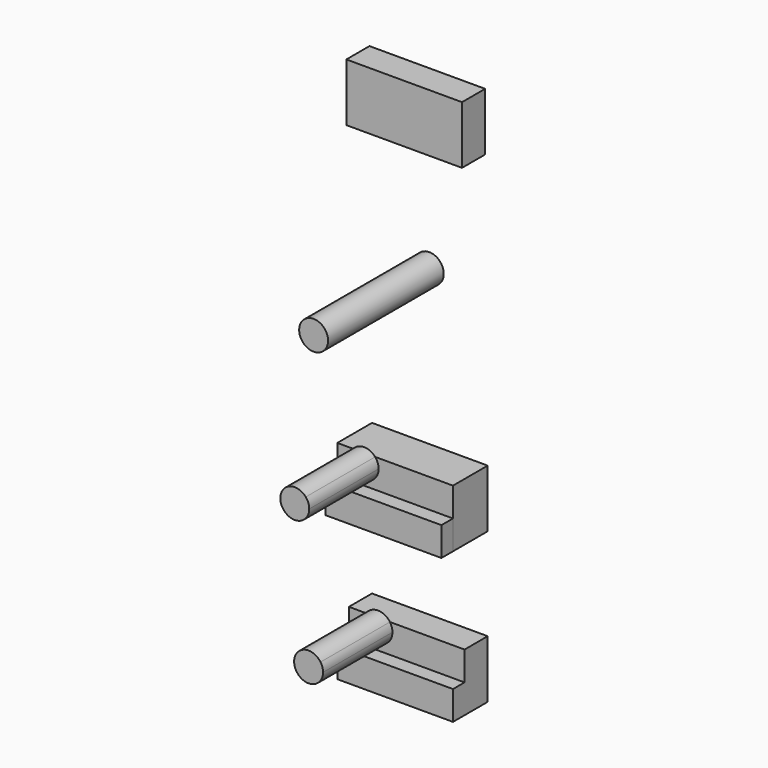
from build123d import *

# Parameters (mm, degrees)
F1_DEPTH  = 5
F2_R      = 2.5
F3_DEPTH  = 25
F5_DEPTH  = 7.5
F7_DEPTH  = 5
F8_W      = 20
F8_H      = 5
F9_DEPTH  = 2.5
F10_W     = 20
F10_H     = 5
F11_DEPTH = 2.5
F13_DEPTH = 15
F15_DEPTH = 15


with BuildPart() as f1:
    # F0 (on Front) → F1 (new body)
    with BuildSketch(Plane.XZ):
        Polygon((-9.5611989871, 33.9807206666), (-10.4388010129, 33.9807206666), (-10.4388010129, 23.9807206666), (-9.5611989871, 23.9807206666), (9.5611989871, 23.9807206666), (9.5611989871, 33.9807206666), align=None)
    extrude(amount=F1_DEPTH)


with BuildPart() as f3:
    # F2 (on Front) → F3 (new body)
    with BuildSketch(Plane.XZ):
        with Locations((-0.0967326268, 3.4898421727)):
            Circle(F2_R)
    extrude(amount=F3_DEPTH)


with BuildPart() as f5:
    # F4 (on Front) → F5 (new body)
    with BuildSketch(Plane.XZ):
        Polygon((-7.0380929299, -23.2265152782), (-10, -23.2265152782), (-10, -33.2265152782), (-7.0380929299, -33.2265152782), (10, -33.2265152782), (10, -23.2265152782), align=None)
    extrude(amount=F5_DEPTH)

    # F12 (on face) → F13 (join)
    with BuildSketch(Plane.XZ.offset(7.5)):
        with BuildLine():
            Line((-7.2531588168, -23.2265152782), (-3.4565283193, -23.2265152782))
            ThreePointArc((-3.4565283193, -23.2265152782), (-5.3548435681, -22.35329099), (-7.2531588168, -23.2265152782))
        make_face()
        with BuildLine():
            ThreePointArc((-7.2531588168, -23.2265152782), (-6.222083984, -27.1980498392), (-2.8548435681, -24.85329099))
            ThreePointArc((-2.8548435681, -24.85329099), (-3.0100847189, -23.986050574), (-3.4565283193, -23.2265152782))
            Line((-3.4565283193, -23.2265152782), (-7.2531588168, -23.2265152782))
        make_face()
    extrude(amount=F13_DEPTH)


with BuildPart() as f7:
    # F6 (on Front) → F7 (new body)
    with BuildSketch(Plane.XZ):
        Polygon((7.257495299, -49.1919507086), (-10, -49.1919507086), (-10, -59.1919507086), (7.257495299, -59.1919507086), (10, -59.1919507086), (10, -49.1919507086), align=None)
    extrude(amount=F7_DEPTH)

    # F10 (on face) → F11 (join)
    with BuildSketch(Plane.XZ.offset(5)):
        with Locations((0, -56.6919507086)):
            Rectangle(F10_W, F10_H)
    extrude(amount=F11_DEPTH)

    # F14 (on face) → F15 (join)
    with BuildSketch(Plane.XZ.offset(5)):
        with BuildLine():
            ThreePointArc((-7.0261559945, -49.1919507086), (-5.7046692057, -52.9938797425), (-2.4644708633, -50.6059713662))
            ThreePointArc((-2.4644708633, -50.6059713662), (-2.576562487, -49.8657730238), (-2.9027857322, -49.1919507086))
            Line((-2.9027857322, -49.1919507086), (-7.0261559945, -49.1919507086))
        make_face()
        with BuildLine():
            Line((-7.0261559945, -49.1919507086), (-2.9027857322, -49.1919507086))
            ThreePointArc((-2.9027857322, -49.1919507086), (-4.9644708633, -48.1059713662), (-7.0261559945, -49.1919507086))
        make_face()
    extrude(amount=F15_DEPTH)


with BuildPart() as f9:
    # F8 (on face) → F9 (new body)
    with BuildSketch(Plane.XZ.offset(7.5)):
        with Locations((0, -30.7265152782)):
            Rectangle(F8_W, F8_H)
    extrude(amount=F9_DEPTH)


solid = Compound([f1.part, f3.part, f5.part, f7.part, f9.part])
